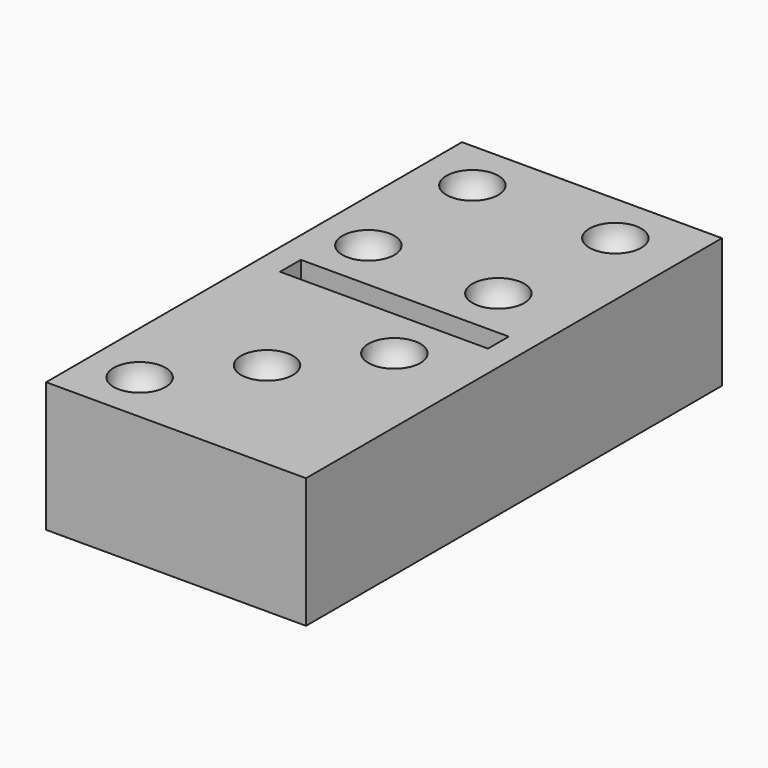
from build123d import *

# Parameters (mm, degrees)
SPHERE_ANGLE    = 180
SPHERE002_ANGLE = 180
SPHERE001_ANGLE = 180
SPHERE003_ANGLE = 180
SPHERE004_ANGLE = 180
SPHERE005_ANGLE = 180
SPHERE006_ANGLE = 180
SPHERE007_ANGLE = 180
BOX001_W        = 8
BOX001_H        = 1
BOX001_DEPTH    = 1
BOX_W           = 10
BOX_H           = 20
BOX_DEPTH       = 5


with BuildPart() as esfera:
    # Sphere → Sphere (revolve)
    with BuildSketch(Plane(origin=(2, 2, 5), x_dir=(1, 0, 0), z_dir=(0, 0, 1))):
        with BuildLine():
            ThreePointArc((0, -1), (1, 0), (0, 1))
            Line((0, 1), (0, -1))
        make_face()
    revolve(axis=Axis((2, 2, 5), (0, 1, 0)), revolution_arc=SPHERE_ANGLE)


with BuildPart() as esfera002:
    # Sphere002 → Sphere002 (revolve)
    with BuildSketch(Plane(origin=(7, 8, 5), x_dir=(1, 0, 0), z_dir=(0, 0, 1))):
        with BuildLine():
            ThreePointArc((0, -1), (1, 0), (0, 1))
            Line((0, 1), (0, -1))
        make_face()
    revolve(axis=Axis((7, 8, 5), (0, 1, 0)), revolution_arc=SPHERE002_ANGLE)


with BuildPart() as esfera001:
    # Sphere001 → Sphere001 (revolve)
    with BuildSketch(Plane(origin=(4.5, 5, 5), x_dir=(1, 0, 0), z_dir=(0, 0, 1))):
        with BuildLine():
            ThreePointArc((0, -1), (1, 0), (0, 1))
            Line((0, 1), (0, -1))
        make_face()
    revolve(axis=Axis((4.5, 5, 5), (0, 1, 0)), revolution_arc=SPHERE001_ANGLE)


with BuildPart() as esfera003:
    # Sphere003 → Sphere003 (revolve)
    with BuildSketch(Plane(origin=(4.5, 5, 5), x_dir=(1, 0, 0), z_dir=(0, 0, 1))):
        with BuildLine():
            ThreePointArc((0, -1), (1, 0), (0, 1))
            Line((0, 1), (0, -1))
        make_face()
    revolve(axis=Axis((4.5, 5, 5), (0, 1, 0)), revolution_arc=SPHERE003_ANGLE)


with BuildPart() as esfera004:
    # Sphere004 → Sphere004 (revolve)
    with BuildSketch(Plane(origin=(7.5, 18, 5), x_dir=(1, 0, 0), z_dir=(0, 0, 1))):
        with BuildLine():
            ThreePointArc((0, -1), (1, 0), (0, 1))
            Line((0, 1), (0, -1))
        make_face()
    revolve(axis=Axis((7.5, 18, 5), (0, 1, 0)), revolution_arc=SPHERE004_ANGLE)


with BuildPart() as esfera005:
    # Sphere005 → Sphere005 (revolve)
    with BuildSketch(Plane(origin=(2, 18, 5), x_dir=(1, 0, 0), z_dir=(0, 0, 1))):
        with BuildLine():
            ThreePointArc((0, -1), (1, 0), (0, 1))
            Line((0, 1), (0, -1))
        make_face()
    revolve(axis=Axis((2, 18, 5), (0, 1, 0)), revolution_arc=SPHERE005_ANGLE)


with BuildPart() as esfera006:
    # Sphere006 → Sphere006 (revolve)
    with BuildSketch(Plane(origin=(2, 13, 5), x_dir=(1, 0, 0), z_dir=(0, 0, 1))):
        with BuildLine():
            ThreePointArc((0, -1), (1, 0), (0, 1))
            Line((0, 1), (0, -1))
        make_face()
    revolve(axis=Axis((2, 13, 5), (0, 1, 0)), revolution_arc=SPHERE006_ANGLE)


with BuildPart() as esfera007:
    # Sphere007 → Sphere007 (revolve)
    with BuildSketch(Plane(origin=(7, 13, 5), x_dir=(1, 0, 0), z_dir=(0, 0, 1))):
        with BuildLine():
            ThreePointArc((0, -1), (1, 0), (0, 1))
            Line((0, 1), (0, -1))
        make_face()
    revolve(axis=Axis((7, 13, 5), (0, 1, 0)), revolution_arc=SPHERE007_ANGLE)


with BuildPart() as fusion:
    # Box001 → Box001 (new body)
    with BuildSketch(Plane(origin=(1, 10, 4), x_dir=(1, 0, 0), z_dir=(0, 0, 1))):
        with Locations((4, 0.5)):
            Rectangle(BOX001_W, BOX001_H)
    extrude(amount=BOX001_DEPTH)

    # Fusion: union Esfera, Esfera002, Esfera001, Esfera003, Esfera004, Esfera005, Esfera006, Esfera007
    add(esfera.part)
    add(esfera002.part)
    add(esfera001.part)
    add(esfera003.part)
    add(esfera004.part)
    add(esfera005.part)
    add(esfera006.part)
    add(esfera007.part)


with BuildPart() as cut:
    # Box → Box (new body)
    with BuildSketch(Plane.XY):
        with Locations((5, 10)):
            Rectangle(BOX_W, BOX_H)
    extrude(amount=BOX_DEPTH)

    # Cut: cut Fusion
    add(fusion.part, mode=Mode.SUBTRACT)


solid = cut.part
